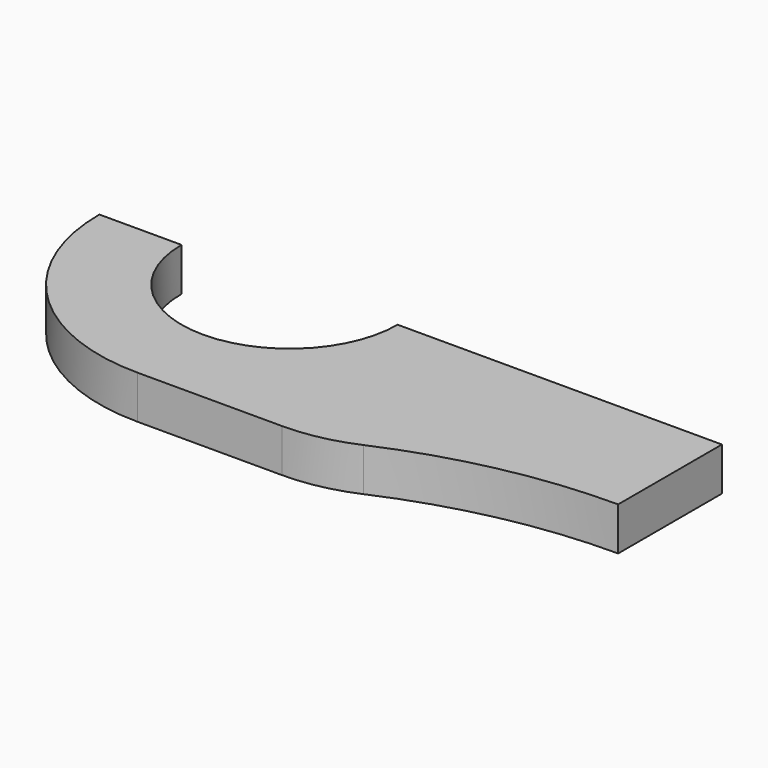
from build123d import *

# Parameters (mm, degrees)
SKETCH_R             = 12.5
PAD_DEPTH            = 5
SKETCH001_R          = 62.5
POCKET_DEPTH         = 5.001
POCKET_DEPTH_BACK    = -5.001
FILLET_R             = 20
POCKET001_DEPTH      = 5.001
POCKET001_DEPTH_BACK = -5.001
SKETCH003_W          = 72
SKETCH003_H          = 22
POCKET002_DEPTH      = 5.001


with BuildPart() as part:
    # Sketch → Pad (new body, symmetric)
    with BuildSketch(Plane.XY):
        with BuildLine():
            ThreePointArc((-50, 22), (-72, 0), (-50, -22))
            Line((-50, -22), (50, -22))
            ThreePointArc((50, -22), (72, 0), (50, 22))
            Line((50, 22), (-50, 22))
        make_face()
        with Locations((-50, 0)):
            Circle(SKETCH_R, mode=Mode.SUBTRACT)
        with Locations((50, 0)):
            Circle(SKETCH_R, mode=Mode.SUBTRACT)
    extrude(amount=PAD_DEPTH, both=True)

    # Sketch001 → Pocket (cut, two sides)
    with BuildSketch(Plane.XY) as pocket_sk:
        with Locations((0, -77.5)):
            Circle(SKETCH001_R)
        with Locations((0, 77.5)):
            Circle(SKETCH001_R)
    extrude(amount=-POCKET_DEPTH, mode=Mode.SUBTRACT)
    extrude(pocket_sk.sketch, amount=-POCKET_DEPTH_BACK, mode=Mode.SUBTRACT)

    # Fillet
    fillet_edges = [part.edges().sort_by_distance(p)[0] for p in [
        (-28.740216, -22, 0),
        (28.740216, -22, 0),
        (-28.740216, 22, 0),
        (28.740216, 22, 0),
    ]]
    fillet(fillet_edges, radius=FILLET_R)

    # Sketch002 → Pocket001 (cut, two sides)
    with BuildSketch(Plane.XY) as pocket001_sk:
        Polygon((72, -22), (72, 22), (-72, 22), (-72, 0), (0, 0), (0, -22), align=None)
    extrude(amount=-POCKET001_DEPTH, mode=Mode.SUBTRACT)
    extrude(pocket001_sk.sketch, amount=-POCKET001_DEPTH_BACK, mode=Mode.SUBTRACT)

    # Sketch003 → Pocket002 (cut, through all)
    with BuildSketch(Plane.XY):
        with Locations((-36, -11)):
            Rectangle(SKETCH003_W, SKETCH003_H)
    extrude(amount=-POCKET002_DEPTH, mode=Mode.SUBTRACT)


solid = part.part
